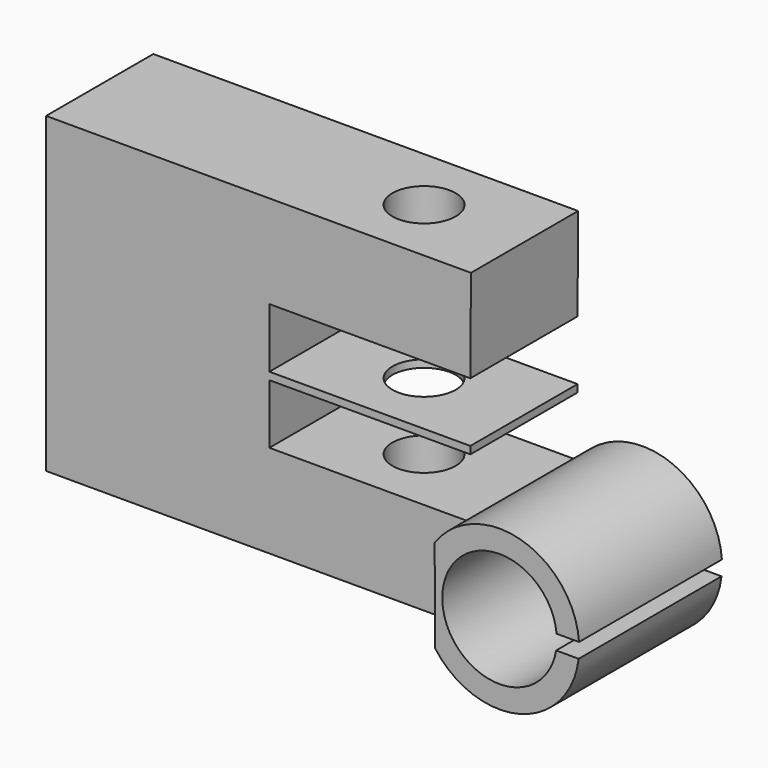
from build123d import *

# Parameters (mm, degrees)
F3_DEPTH  = 18
F4_R      = 4.25
F5_DEPTH  = 30
F6_R      = 4.25
F7_DEPTH  = 100
F2_R      = 7.7
F8_DEPTH  = 24
F9_W      = 8
F9_H      = 2
F10_DEPTH = 40


with BuildPart() as f3:
    # F2 (on Front) → F3 (new body)
    with BuildSketch(Plane.XZ):
        with BuildLine():
            Line((-57.0810220509, 0), (0, 0))
            ThreePointArc((0, 0), (-2.0556624872, 6.2369382637), (-0.0810220509, 12.5))
            Line((-0.0810220509, 12.5), (-27.0810220509, 12.5))
            Line((-27.0810220509, 12.5), (-27.0810220509, 20.5))
            Line((-27.0810220509, 20.5), (-27.0810220509, 21))
            Line((-27.0810220509, 21), (-27.0810220509, 21.5))
            Line((-27.0810220509, 21.5), (-27.0810220509, 29.5))
            Line((-27.0810220509, 29.5), (-0.0810220509, 29.5))
            Line((-0.0810220509, 29.5), (0, 42))
            Line((0, 42), (-57.0810220509, 42))
            Line((-57.0810220509, 42), (-57.0810220509, 0))
        make_face()
        with BuildLine():
            ThreePointArc((-0.0810220509, 12.5), (-2.0556624872, 6.2369382637), (0, 0))
            Line((0, 0), (-0.0810220509, 12.5))
        make_face()
        with BuildLine():
            Line((-57.0810220509, 0), (0, 0))
            ThreePointArc((0, 0), (-2.0556624872, 6.2369382637), (-0.0810220509, 12.5))
            Line((-0.0810220509, 12.5), (-27.0810220509, 12.5))
            Line((-27.0810220509, 12.5), (-27.0810220509, 20.5))
            Line((-27.0810220509, 20.5), (-27.0810220509, 21))
            Line((-27.0810220509, 21), (-27.0810220509, 21.5))
            Line((-27.0810220509, 21.5), (-27.0810220509, 29.5))
            Line((-27.0810220509, 29.5), (-0.0810220509, 29.5))
            Line((-0.0810220509, 29.5), (0, 42))
            Line((0, 42), (-57.0810220509, 42))
            Line((-57.0810220509, 42), (-57.0810220509, 0))
        make_face()
        Polygon((-27.0810220509, 21), (-27.0810220509, 20.5), (-0.0810220509, 20.5), (-0.0810220509, 21.5), (-27.0810220509, 21.5), align=None)
    extrude(amount=F3_DEPTH)

    # F4 (on face) → F5 (cut)
    with BuildSketch(Plane(origin=(-57.0810220509, 0, 0), x_dir=(0, -1, 0), z_dir=(-1, 0, 0))):
        with Locations((9, 6.25)):
            Circle(F4_R)
        with Locations((9, 35.75)):
            Circle(F4_R)
    extrude(amount=-F5_DEPTH, mode=Mode.SUBTRACT)

    # F6 (on face) → F7 (cut)
    with BuildSketch(Plane.XY.offset(42)):
        with Locations((-13.5, -9)):
            Circle(F6_R)
    extrude(amount=-F7_DEPTH, mode=Mode.SUBTRACT)

    # F2 (on Front) → F8 (join)
    with BuildSketch(Plane.XZ):
        with BuildLine():
            Line((-0.0810220509, 12.5), (0, 0))
            ThreePointArc((0, 0), (11.9605862967, -3.8667611144), (19.344112749, 6.3062916824))
            ThreePointArc((19.344112749, 6.3062916824), (11.894578688, 16.5006269319), (-0.0810220509, 12.5))
        make_face()
        with Locations((8.644112749, 6.3062916824)):
            Circle(F2_R, mode=Mode.SUBTRACT)
    extrude(amount=F8_DEPTH)

    # F9 (on Front) → F10 (cut)
    with BuildSketch(Plane.XZ):
        with Locations((17.9096895307, 6.058463525)):
            Rectangle(F9_W, F9_H)
    extrude(amount=F10_DEPTH, mode=Mode.SUBTRACT)


solid = f3.part
